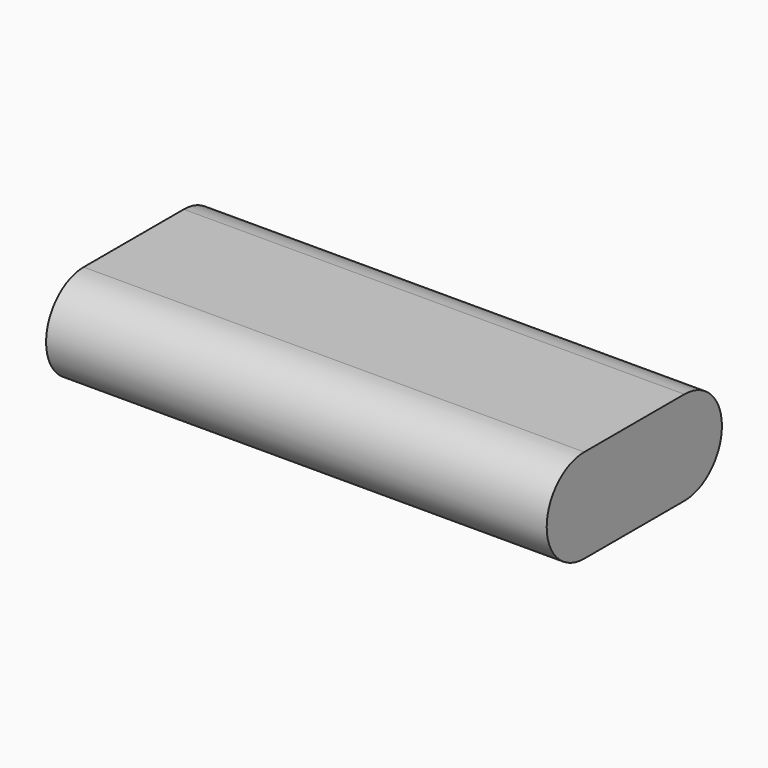
from build123d import *

# Parameters (mm, degrees)
F1_DEPTH = 101.6


with BuildPart() as f1:
    # F0 (on Right) → F1 (new body)
    with BuildSketch(Plane.YZ):
        with BuildLine():
            ThreePointArc((0, 19.05), (-9.525, 9.525), (0, 0))
            Line((0, 0), (25.4, 0))
            ThreePointArc((25.4, 0), (34.925, 9.525), (25.4, 19.05))
            Line((25.4, 19.05), (0, 19.05))
        make_face()
    extrude(amount=F1_DEPTH)


solid = f1.part
